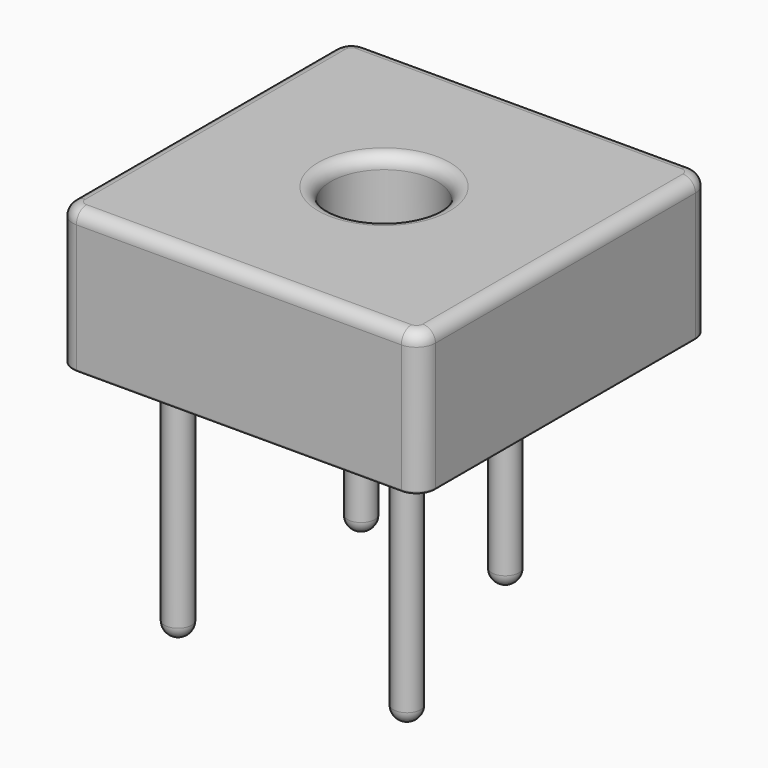
from build123d import *

# Parameters (mm, degrees)
BOX_W           = 28.7
BOX_H           = 28.7
BOX_DEPTH       = 11.23
SKETCH_W        = 27
SKETCH_H        = 27
SKETCH_R        = 4.9
POCKET_DEPTH    = 10.38
BOX001_W        = 28
BOX001_H        = 28
BOX001_DEPTH    = 11
SKETCH002_R     = 1.07
PAD_DEPTH       = 19.27
FILLET004_R     = 1.05
FILLET005_R     = 1.05
FILLET006_R     = 1.05
FILLET007_R     = 1.05
POCKET001_DEPTH = 10.38
SKETCH001_R     = 4.2
POCKET002_DEPTH = 11.231
FILLET_R        = 1.5
FILLET001_R     = 1
FILLET002_R     = 1
FILLET003_R     = 0.15
FILLET008_R     = 0.25


with BuildPart() as obj1:
    # Box → Box (new body)
    with BuildSketch(Plane(origin=(-14.35, -14.35, 5.5), x_dir=(1, 0, 0), z_dir=(0, 0, 1))):
        with Locations((14.35, 14.35)):
            Rectangle(BOX_W, BOX_H)
    extrude(amount=BOX_DEPTH)


with BuildPart() as pocket:
    # Pocket base: copy of obj1
    add(obj1.part)

    # Sketch → Pocket (cut)
    with BuildSketch(Plane(origin=(-14.35, -14.35, 5.5), x_dir=(1, 0, 0), z_dir=(0, 0, -1))):
        with Locations((14.35, -14.35)):
            Rectangle(SKETCH_W, SKETCH_H)
        with Locations((14.35, -14.35)):
            Circle(SKETCH_R, mode=Mode.SUBTRACT)
    extrude(amount=-POCKET_DEPTH, mode=Mode.SUBTRACT)


with BuildPart() as obj2:
    # Box001 → Box001 (new body)
    with BuildSketch(Plane(origin=(-14.35, -14.35, 5.5), x_dir=(1, 0, 0), z_dir=(0, 0, 1))):
        with Locations((14, 14)):
            Rectangle(BOX001_W, BOX001_H)
    extrude(amount=BOX001_DEPTH)


with BuildPart() as fill001:
    # Cut001 base: copy of obj2
    add(obj2.part)

    # Cut001: cut Pocket
    add(pocket.part, mode=Mode.SUBTRACT)


with BuildPart() as fill:
    # Cut base: copy of obj2
    add(obj2.part)

    # Cut: cut Pocket
    add(pocket.part, mode=Mode.SUBTRACT)


with BuildPart() as pads:
    # Pad base: copy of Fill
    add(fill.part)

    # Sketch002 → Pad (new body)
    with BuildSketch(Plane(origin=(0, 0, 5.5), x_dir=(1, 0, 0), z_dir=(0, 0, -1))):
        with Locations((-9.05, 9.05)):
            Circle(SKETCH002_R)
        with Locations((9.05, 9.05)):
            Circle(SKETCH002_R)
        with Locations((-9.05, -9.05)):
            Circle(SKETCH002_R)
        with Locations((2.35, -9.05)):
            Circle(SKETCH002_R)
    extrude(amount=PAD_DEPTH)

    # Cut002: cut Fill
    add(fill.part, mode=Mode.SUBTRACT)

    # Fillet004
    fillet004_edges = [pads.edges().sort_by_distance(p)[0] for p in [
        (7.98, -9.05, -13.77),
    ]]
    fillet(fillet004_edges, radius=FILLET004_R)

    # Fillet005
    fillet005_edges = [pads.edges().sort_by_distance(p)[0] for p in [
        (-10.12, -9.05, -13.77),
    ]]
    fillet(fillet005_edges, radius=FILLET005_R)

    # Fillet006
    fillet006_edges = [pads.edges().sort_by_distance(p)[0] for p in [
        (1.28, 9.05, -13.77),
    ]]
    fillet(fillet006_edges, radius=FILLET006_R)

    # Fillet007
    fillet007_edges = [pads.edges().sort_by_distance(p)[0] for p in [
        (-10.12, 9.05, -13.77),
    ]]
    fillet(fillet007_edges, radius=FILLET007_R)


with BuildPart() as body:
    # Pocket001 base: copy of obj1
    add(obj1.part)

    # Sketch → Pocket001 (cut)
    with BuildSketch(Plane(origin=(-14.35, -14.35, 5.5), x_dir=(1, 0, 0), z_dir=(0, 0, -1))):
        with Locations((14.35, -14.35)):
            Rectangle(SKETCH_W, SKETCH_H)
        with Locations((14.35, -14.35)):
            Circle(SKETCH_R, mode=Mode.SUBTRACT)
    extrude(amount=-POCKET001_DEPTH, mode=Mode.SUBTRACT)

    # Sketch001 → Pocket002 (cut, through all)
    with BuildSketch(Plane(origin=(-14.35, -14.35, 5.5), x_dir=(1, 0, 0), z_dir=(0, 0, -1))):
        with Locations((14.35, -14.35)):
            Circle(SKETCH001_R)
    extrude(amount=-POCKET002_DEPTH, mode=Mode.SUBTRACT)

    # Fillet
    fillet_edges = [body.edges().sort_by_distance(p)[0] for p in [
        (14.35, -14.35, 11.115),
        (14.35, 14.35, 11.115),
        (-14.35, 14.35, 11.115),
        (-14.35, -14.35, 11.115),
    ]]
    fillet(fillet_edges, radius=FILLET_R)

    # Fillet001
    fillet001_edges = [body.edges().sort_by_distance(p)[0] for p in [
        (0, -14.35, 16.73),
    ]]
    fillet(fillet001_edges, radius=FILLET001_R)

    # Fillet002
    fillet002_edges = [body.edges().sort_by_distance(p)[0] for p in [
        (-4.2, 0, 16.73),
    ]]
    fillet(fillet002_edges, radius=FILLET002_R)

    # Fillet003
    fillet003_edges = [body.edges().sort_by_distance(p)[0] for p in [
        (0, -14.35, 5.5),
    ]]
    fillet(fillet003_edges, radius=FILLET003_R)

    # Fillet008
    fillet008_edges = [body.edges().sort_by_distance(p)[0] for p in [
        (-4.2, 0, 5.5),
    ]]
    fillet(fillet008_edges, radius=FILLET008_R)


solid = Compound([fill001.part, pads.part, body.part])
